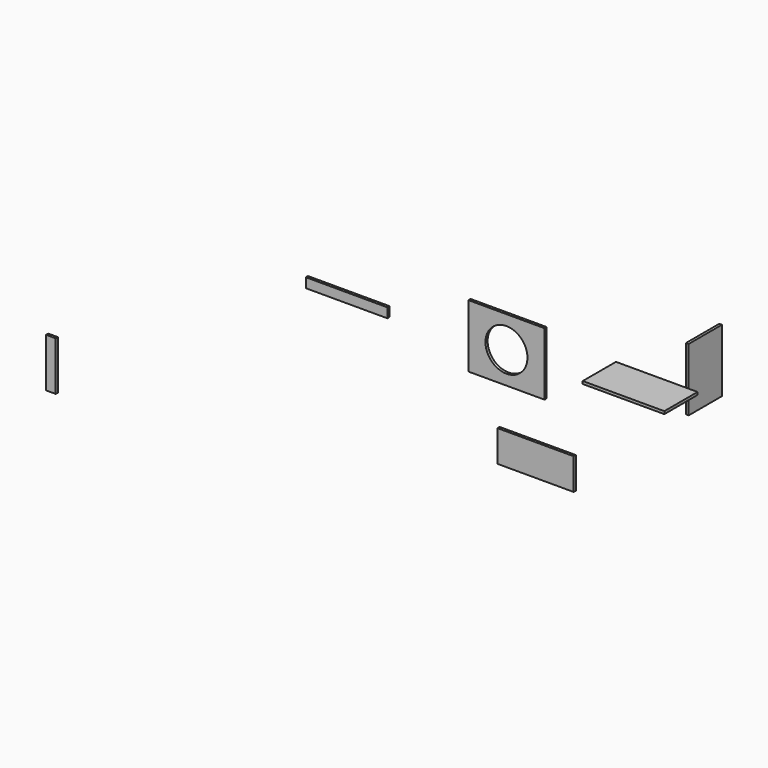
from build123d import *

# Parameters (mm, degrees)
F0_W      = 550
F0_H      = 280
F1_DEPTH  = 18
F2_W      = 280
F2_H      = 424
F3_DEPTH  = 18
F4_W      = 514
F4_H      = 424
F5_DEPTH  = 18
F6_R      = 141.5
F7_DEPTH  = 755.747566
F8_W      = 514
F8_H      = 212
F9_DEPTH  = 18
F10_W     = 550
F10_H     = 65
F11_DEPTH = 18
F12_W     = 65
F12_H     = 330
F13_DEPTH = 18


with BuildPart() as f1:
    # F0 (on Top) → F1 (new body)
    with BuildSketch(Plane.XY):
        with Locations((-0.756867, 72.099509)):
            Rectangle(F0_W, F0_H)
    extrude(amount=F1_DEPTH)


with BuildPart() as f3:
    # F2 (on Right) → F3 (new body)
    with BuildSketch(Plane.YZ):
        with Locations((597.746566, -92.18962)):
            Rectangle(F2_W, F2_H)
    extrude(amount=F3_DEPTH)


with BuildPart() as f5:
    # F4 (on Front) → F5 (new body)
    with BuildSketch(Plane.XZ):
        with Locations((-829.896957, 2.061453)):
            Rectangle(F4_W, F4_H)
    extrude(amount=F5_DEPTH)

    # F6 (on face) → F7 (cut, through all)
    with BuildSketch(Plane.XZ.offset(18)):
        with Locations((-829.896957, 2.061453)):
            Circle(F6_R)
    extrude(amount=-F7_DEPTH, mode=Mode.SUBTRACT)


with BuildPart() as f9:
    # F8 (on Front) → F9 (new body)
    with BuildSketch(Plane.XZ):
        with Locations((-633.472204, -587.819855)):
            Rectangle(F8_W, F8_H)
    extrude(amount=F9_DEPTH)


with BuildPart() as f11:
    # F10 (on Front) → F11 (new body)
    with BuildSketch(Plane.XZ):
        with Locations((-1907.799184, -39.061294)):
            Rectangle(F10_W, F10_H)
    extrude(amount=F11_DEPTH)


with BuildPart() as f13:
    # F12 (on Front) → F13 (new body)
    with BuildSketch(Plane.XZ):
        with Locations((-3900.813289, -1082.523244)):
            Rectangle(F12_W, F12_H)
    extrude(amount=F13_DEPTH)


solid = Compound([f1.part, f3.part, f5.part, f9.part, f11.part, f13.part])
